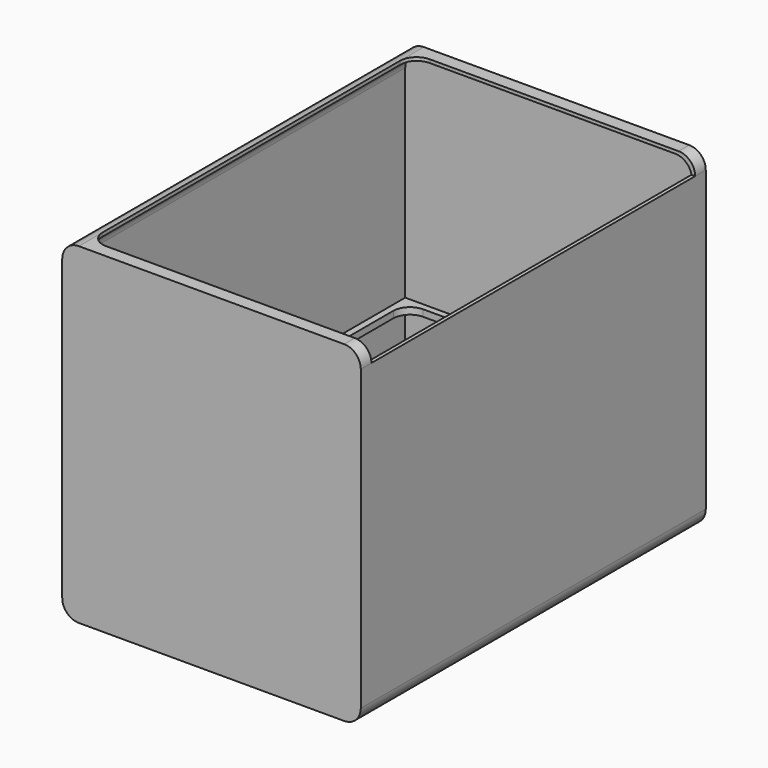
from build123d import *

# Parameters (mm, degrees)
F1_DEPTH      = 165.1
F1_DEPTH_BACK = 165.1
F3_DEPTH      = 12.7
F5_DEPTH      = 5.08
F7_DEPTH      = 5.08
F8_W          = 223.52
F8_H          = 5.08
F9_DEPTH      = 320.04
F11_DEPTH     = 25.4


with BuildPart() as f1:
    # F0 (on Front) → F1 (new body, two sides)
    with BuildSketch(Plane.XZ) as f1_sk:
        with BuildLine():
            Line((-101.6, -127), (101.6, -127))
            ThreePointArc((101.6, -127), (110.580256, -123.280256), (114.3, -114.3))
            Line((114.3, -114.3), (114.3, 114.3))
            ThreePointArc((114.3, 114.3), (110.580256, 123.280256), (101.6, 127))
            Line((101.6, 127), (-101.6, 127))
            ThreePointArc((-101.6, 127), (-110.580256, 123.280256), (-114.3, 114.3))
            Line((-114.3, 114.3), (-114.3, -114.3))
            ThreePointArc((-114.3, -114.3), (-110.580256, -123.280256), (-101.6, -127))
        make_face()
        with BuildLine():
            ThreePointArc((111.76, -111.76), (108.040256, -120.740256), (99.06, -124.46))
            Line((99.06, -124.46), (-99.06, -124.46))
            ThreePointArc((-99.06, -124.46), (-108.040256, -120.740256), (-111.76, -111.76))
            Line((-111.76, -111.76), (-111.76, 111.76))
            ThreePointArc((-111.76, 111.76), (-108.040256, 120.740256), (-99.06, 124.46))
            Line((-99.06, 124.46), (99.06, 124.46))
            ThreePointArc((99.06, 124.46), (108.040256, 120.740256), (111.76, 111.76))
            Line((111.76, 111.76), (111.76, -111.76))
        make_face(mode=Mode.SUBTRACT)
    extrude(amount=F1_DEPTH)
    extrude(f1_sk.sketch, amount=-F1_DEPTH_BACK)

    # F2 (on face) → F3 (cut)
    with BuildSketch(Plane.XY.offset(127)):
        with BuildLine():
            Line((-88.9, -154.94), (312.616626, -154.94))
            Line((312.616626, -154.94), (312.616626, 154.94))
            Line((312.616626, 154.94), (-88.9, 154.94))
            ThreePointArc((-88.9, 154.94), (-97.880256, 151.220256), (-101.6, 142.24))
            Line((-101.6, 142.24), (-101.6, -142.24))
            ThreePointArc((-101.6, -142.24), (-97.880256, -151.220256), (-88.9, -154.94))
        make_face()
    extrude(amount=-F3_DEPTH, mode=Mode.SUBTRACT)

    # F4 (on face) → F5 (join)
    with BuildSketch(Plane.XZ.offset(165.1)):
        with BuildLine():
            Line((-101.6, -127), (101.6, -127))
            ThreePointArc((101.6, -127), (110.580256, -123.280256), (114.3, -114.3))
            Line((114.3, -114.3), (114.3, 114.3))
            ThreePointArc((114.3, 114.3), (110.580256, 123.280256), (101.6, 127))
            Line((101.6, 127), (-101.6, 127))
            ThreePointArc((-101.6, 127), (-110.580256, 123.280256), (-114.3, 114.3))
            Line((-114.3, 114.3), (-114.3, -114.3))
            ThreePointArc((-114.3, -114.3), (-110.580256, -123.280256), (-101.6, -127))
        make_face()
    extrude(amount=-F5_DEPTH)

    # F6 (on face) → F7 (join)
    with BuildSketch(Plane(origin=(0, 165.1, 0), x_dir=(-1, 0, 0), z_dir=(0, 1, 0))):
        with BuildLine():
            Line((-101.6, -127), (101.6, -127))
            ThreePointArc((101.6, -127), (110.580256, -123.280256), (114.3, -114.3))
            Line((114.3, -114.3), (114.3, 114.3))
            ThreePointArc((114.3, 114.3), (110.580256, 123.280256), (101.6, 127))
            Line((101.6, 127), (-101.6, 127))
            ThreePointArc((-101.6, 127), (-110.580256, 123.280256), (-114.3, 114.3))
            Line((-114.3, 114.3), (-114.3, -114.3))
            ThreePointArc((-114.3, -114.3), (-110.580256, -123.280256), (-101.6, -127))
        make_face()
    extrude(amount=-F7_DEPTH)

    # F8 (on face) → F9 (join)
    with BuildSketch(Plane(origin=(0, -160.02, 0), x_dir=(-1, 0, 0), z_dir=(0, 1, 0))):
        with Locations((0, -45.72)):
            Rectangle(F8_W, F8_H)
    extrude(amount=F9_DEPTH)

    # F10 (on face) → F11 (cut)
    with BuildSketch(Plane.XY.offset(-43.18)):
        with BuildLine():
            Line((111.76, -154.94), (111.76, 154.94))
            Line((111.76, 154.94), (-93.98, 154.94))
            ThreePointArc((-93.98, 154.94), (-102.960256, 151.220256), (-106.68, 142.24))
            Line((-106.68, 142.24), (-106.68, -142.24))
            ThreePointArc((-106.68, -142.24), (-102.960256, -151.220256), (-93.98, -154.94))
            Line((-93.98, -154.94), (111.76, -154.94))
        make_face()
    extrude(amount=-F11_DEPTH, mode=Mode.SUBTRACT)


solid = f1.part
